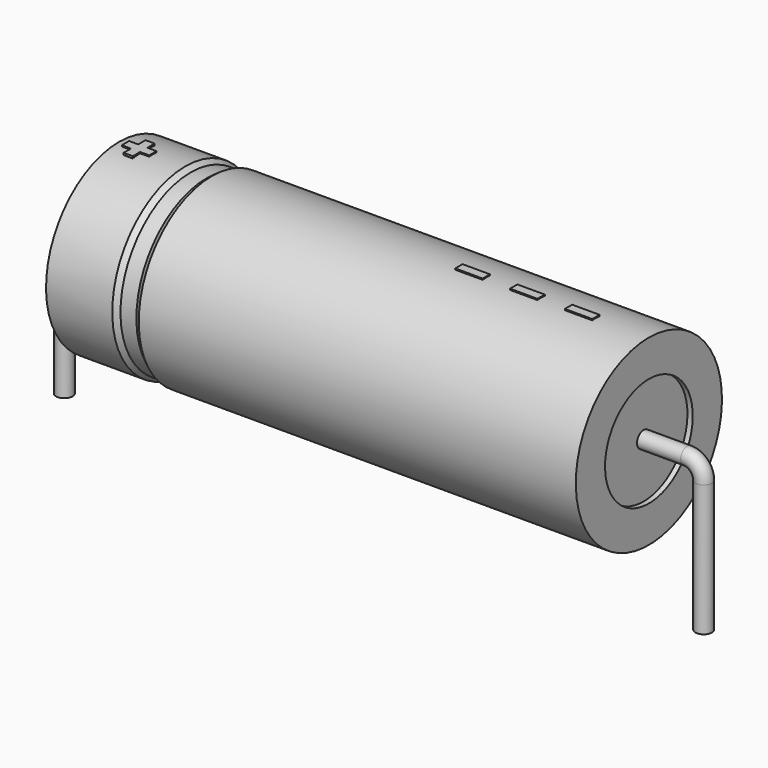
from build123d import *

# Parameters (mm, degrees)
SKETCH_R    = 0.45
SKETCH004_W = 1.5
SKETCH004_H = 0.5
PAD_DEPTH   = 5.05


with BuildPart() as sweep_body:
    # Sweep: sweep along a path in Sketch001
    with BuildLine(Plane.XZ) as sweep_path:
        Line((0, -3), (0, 4.2))
        ThreePointArc((0, 4.2), (0.2636, 4.836392), (0.899988, 5.1))
        Line((0.899988, 5.1), (34.1, 5.1))
        ThreePointArc((34.1, 5.1), (34.736396, 4.836396), (35, 4.2))
        Line((35, 4.2), (35, -3))
    # Sketch → Sweep (sweep)
    with BuildSketch(Plane.XY.offset(-2)):
        Circle(SKETCH_R)
    sweep(path=sweep_path.line)


with BuildPart() as revolution:
    # Sketch002 → Revolution (revolve)
    with BuildSketch(Plane.XZ):
        Polygon((3, 10.1), (3, 8.1), (32, 8.1), (32, 10.1), (8.075, 10.1), (7.785, 9.9), (6.915, 9.9), (6.625, 10.1), align=None)
    revolve(axis=Axis((6.97588, 0, 5.1), (1, 0, 0)))


with BuildPart() as revolution001:
    # Sketch003 → Revolution001 (revolve)
    with BuildSketch(Plane.XZ):
        Polygon((3.29, 9.9), (4.74, 9.9), (4.74, 5.6), (30.26, 5.6), (30.26, 9.9), (31.71, 9.9), (31.71, 5.1), (3.29, 5.1), align=None)
    revolve(axis=Axis((6.97588, 0, 5.1), (1, 0, 0)))


with BuildPart() as pad:
    # Sketch004 → Pad (new body)
    with BuildSketch(Plane.XY.offset(5.1)):
        with Locations((28.35, 0)):
            Rectangle(SKETCH004_W, SKETCH004_H)
        with Locations((25.35, 0)):
            Rectangle(SKETCH004_W, SKETCH004_H)
        with Locations((22.35, 0)):
            Rectangle(SKETCH004_W, SKETCH004_H)
        Polygon((3.848, 0.25), (3.348, 0.25), (3.348, -0.25), (3.848, -0.25), (3.848, -0.75), (4.348, -0.75), (4.348, -0.25), (4.848, -0.25), (4.848, 0.25), (4.348, 0.25), (4.348, 0.75), (3.848, 0.75), align=None)
    extrude(amount=PAD_DEPTH)


solid = Compound([sweep_body.part, revolution.part, revolution001.part, pad.part])
